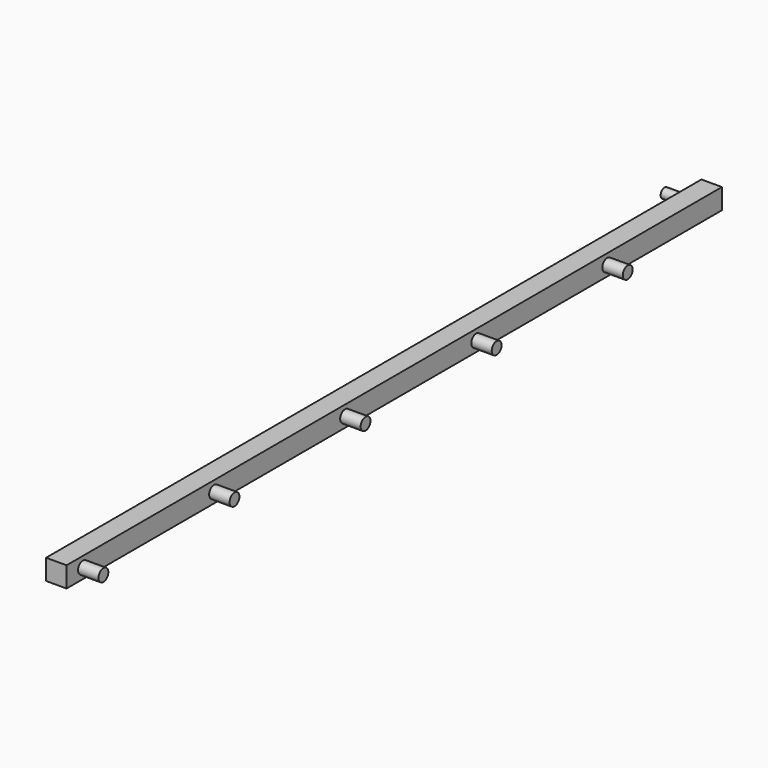
from build123d import *

# Parameters (mm, degrees)
F0_W     = 1000
F0_H     = 25
F1_DEPTH = 25
F2_R     = 7.5
F3_DEPTH = 25
F4_R     = 6
F5_DEPTH = 25


with BuildPart() as f1:
    # F0 (on Right) → F1 (new body)
    with BuildSketch(Plane.YZ):
        Rectangle(F0_W, F0_H)
    extrude(amount=F1_DEPTH)

    # F2 (on face) → F3 (join)
    with BuildSketch(Plane.YZ.offset(25)):
        with Locations((-475, 0)):
            Circle(F2_R)
        with Locations((-275, 0)):
            Circle(F2_R)
        with Locations((-75, 0)):
            Circle(F2_R)
        with Locations((125, 0)):
            Circle(F2_R)
        with Locations((325, 0)):
            Circle(F2_R)
    extrude(amount=F3_DEPTH)

    # F4 (on face) → F5 (join)
    with BuildSketch(Plane(origin=(0, 0, 0), x_dir=(0, -1, 0), z_dir=(-1, 0, 0))):
        with Locations((-475, 0)):
            Circle(F4_R)
    extrude(amount=F5_DEPTH)


solid = f1.part
